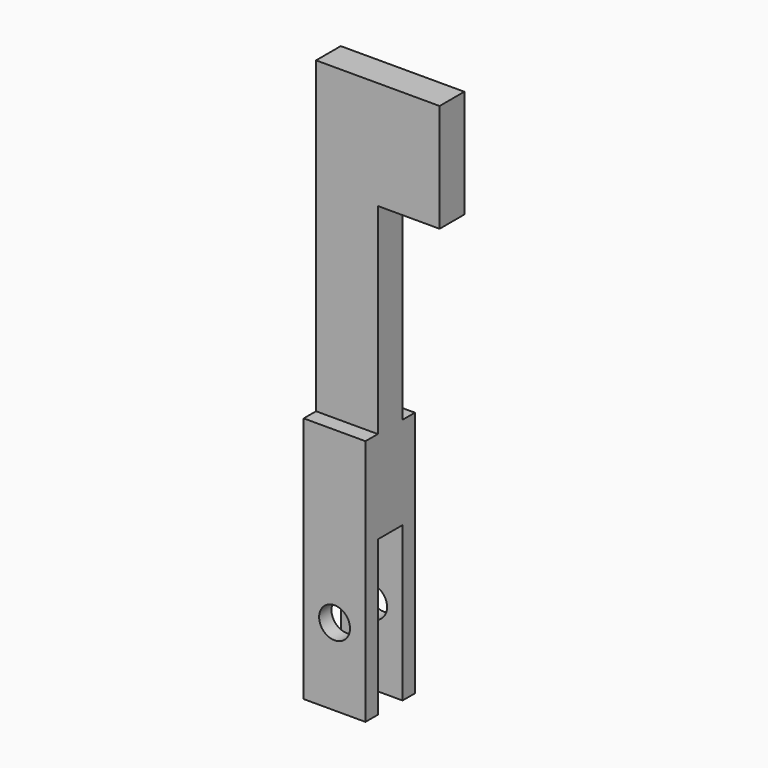
from build123d import *

# Parameters (mm, degrees)
F1_DEPTH = 20
F2_W     = 40
F2_H     = 5
F3_DEPTH = 100
F4_W     = 20
F4_H     = 10
F5_DEPTH = 50
F6_R     = 5
F7_DEPTH = 20.001


with BuildPart() as f1:
    # F0 (on Front) → F1 (new body)
    with BuildSketch(Plane.XZ):
        Polygon((-19.255103, 180), (-19.255103, 0), (0.744897, 0), (0.744897, 145), (20.744897, 145), (20.744897, 180), align=None)
    extrude(amount=-F1_DEPTH)

    # F2 (on face) → F3 (cut)
    with BuildSketch(Plane.XY.offset(180)):
        with Locations((0.744897, 17.5)):
            Rectangle(F2_W, F2_H)
        with Locations((0.744897, 2.5)):
            Rectangle(F2_W, F2_H)
    extrude(amount=-F3_DEPTH, mode=Mode.SUBTRACT)

    # F4 (on face) → F5 (cut)
    with BuildSketch(Plane(origin=(0, 0, 0), x_dir=(1, 0, 0), z_dir=(0, 0, -1))):
        with Locations((-9.255103, -10)):
            Rectangle(F4_W, F4_H)
    extrude(amount=-F5_DEPTH, mode=Mode.SUBTRACT)

    # F6 (on face) → F7 (cut, through all)
    with BuildSketch(Plane.XZ):
        with Locations((-9.255103, 25)):
            Circle(F6_R)
    extrude(amount=-F7_DEPTH, mode=Mode.SUBTRACT)


solid = f1.part
